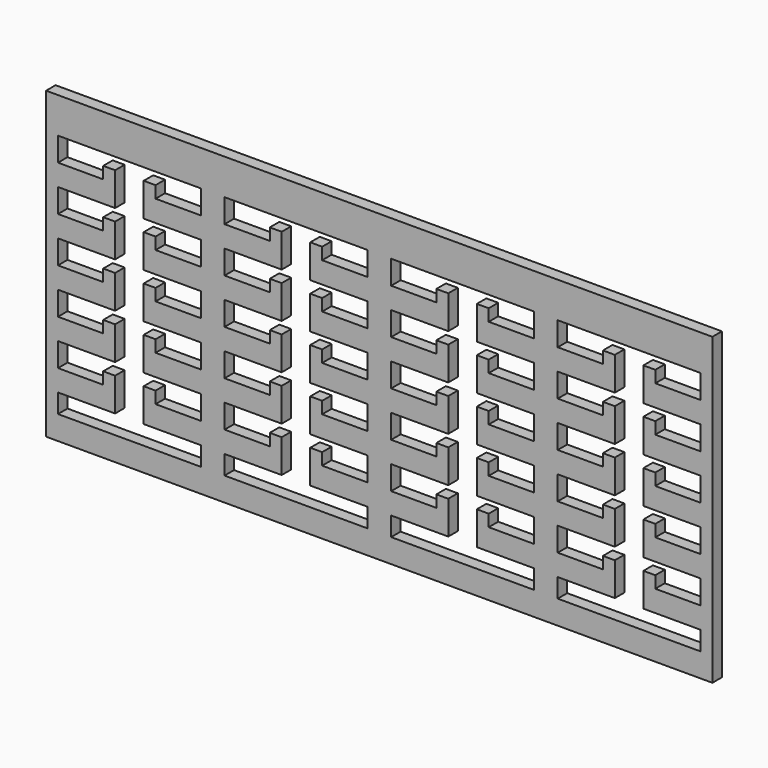
from build123d import *

# Parameters (mm, degrees)
F0_W     = 355.6
F0_H     = 162.56
F1_DEPTH = 6.35


with BuildPart() as f1:
    # F0 (on Front) → F1 (new body)
    with BuildSketch(Plane.XZ):
        with Locations((-191.475798, 8.893475)):
            Rectangle(F0_W, F0_H)
        Polygon((-362.925798, -38.096525), (-362.925798, -25.396525), (-332.445798, -25.396525), (-332.445798, -7.616525), (-338.795798, -7.616525), (-338.795798, -13.966525), (-362.925798, -13.966525), (-362.925798, -1.266525), (-332.445798, -1.266525), (-332.445798, 16.513475), (-338.795798, 16.513475), (-338.795798, 10.163475), (-362.925798, 10.163475), (-362.925798, 22.863475), (-332.445798, 22.863475), (-332.445798, 40.643475), (-338.795798, 40.643475), (-338.795798, 34.293475), (-362.925798, 34.293475), (-362.925798, 46.993475), (-332.445798, 46.993475), (-332.445798, 64.773475), (-338.795798, 64.773475), (-338.795798, 58.423475), (-362.925798, 58.423475), (-362.925798, 71.123475), (-286.725798, 71.123475), (-286.725798, 58.423475), (-310.855798, 58.423475), (-310.855798, 64.773475), (-317.205798, 64.773475), (-317.205798, 46.993475), (-286.725798, 46.993475), (-286.725798, 34.293475), (-310.855798, 34.293475), (-310.855798, 40.643475), (-317.205798, 40.643475), (-317.205798, 22.863475), (-286.725798, 22.863475), (-286.725798, 10.163475), (-310.855798, 10.163475), (-310.855798, 16.513475), (-317.205798, 16.513475), (-317.205798, -1.266525), (-286.725798, -1.266525), (-286.725798, -13.966525), (-310.855798, -13.966525), (-310.855798, -7.616525), (-317.205798, -7.616525), (-317.205798, -25.396525), (-286.725798, -25.396525), (-286.725798, -38.096525), (-310.855798, -38.096525), (-310.855798, -31.746525), (-317.205798, -31.746525), (-317.205798, -49.526525), (-286.725798, -49.526525), (-286.725798, -59.686525), (-362.925798, -59.686525), (-362.925798, -49.526525), (-332.445798, -49.526525), (-332.445798, -31.746525), (-338.795798, -31.746525), (-338.795798, -38.096525), align=None, mode=Mode.SUBTRACT)
        Polygon((-274.025798, 71.123475), (-197.825798, 71.123475), (-197.825798, 58.423475), (-221.955798, 58.423475), (-221.955798, 64.773475), (-228.305798, 64.773475), (-228.305798, 46.993475), (-197.825798, 46.993475), (-197.825798, 34.293475), (-221.955798, 34.293475), (-221.955798, 40.643475), (-228.305798, 40.643475), (-228.305798, 22.863475), (-197.825798, 22.863475), (-197.825798, 10.163475), (-221.955798, 10.163475), (-221.955798, 16.513475), (-228.305798, 16.513475), (-228.305798, -1.266525), (-197.825798, -1.266525), (-197.825798, -13.966525), (-221.955798, -13.966525), (-221.955798, -7.616525), (-228.305798, -7.616525), (-228.305798, -25.396525), (-197.825798, -25.396525), (-197.825798, -38.096525), (-221.955798, -38.096525), (-221.955798, -31.746525), (-228.305798, -31.746525), (-228.305798, -49.526525), (-197.825798, -49.526525), (-197.825798, -59.686525), (-274.025798, -59.686525), (-274.025798, -49.526525), (-243.545798, -49.526525), (-243.545798, -31.746525), (-249.895798, -31.746525), (-249.895798, -38.096525), (-274.025798, -38.096525), (-274.025798, -25.396525), (-243.545798, -25.396525), (-243.545798, -7.616525), (-249.895798, -7.616525), (-249.895798, -13.966525), (-274.025798, -13.966525), (-274.025798, -1.266525), (-243.545798, -1.266525), (-243.545798, 16.513475), (-249.895798, 16.513475), (-249.895798, 10.163475), (-274.025798, 10.163475), (-274.025798, 22.863475), (-243.545798, 22.863475), (-243.545798, 40.643475), (-249.895798, 40.643475), (-249.895798, 34.293475), (-274.025798, 34.293475), (-274.025798, 46.993475), (-243.545798, 46.993475), (-243.545798, 64.773475), (-249.895798, 64.773475), (-249.895798, 58.423475), (-274.025798, 58.423475), align=None, mode=Mode.SUBTRACT)
        Polygon((-185.125798, -38.096525), (-185.125798, -25.396525), (-154.645798, -25.396525), (-154.645798, -7.616525), (-160.995798, -7.616525), (-160.995798, -13.966525), (-185.125798, -13.966525), (-185.125798, -1.266525), (-154.645798, -1.266525), (-154.645798, 16.513475), (-160.995798, 16.513475), (-160.995798, 10.163475), (-185.125798, 10.163475), (-185.125798, 22.863475), (-154.645798, 22.863475), (-154.645798, 40.643475), (-160.995798, 40.643475), (-160.995798, 34.293475), (-185.125798, 34.293475), (-185.125798, 46.993475), (-154.645798, 46.993475), (-154.645798, 64.773475), (-160.995798, 64.773475), (-160.995798, 58.423475), (-185.125798, 58.423475), (-185.125798, 71.123475), (-108.925798, 71.123475), (-108.925798, 58.423475), (-133.055798, 58.423475), (-133.055798, 64.773475), (-139.405798, 64.773475), (-139.405798, 46.993475), (-108.925798, 46.993475), (-108.925798, 34.293475), (-133.055798, 34.293475), (-133.055798, 40.643475), (-139.405798, 40.643475), (-139.405798, 22.863475), (-108.925798, 22.863475), (-108.925798, 10.163475), (-133.055798, 10.163475), (-133.055798, 16.513475), (-139.405798, 16.513475), (-139.405798, -1.266525), (-108.925798, -1.266525), (-108.925798, -13.966525), (-133.055798, -13.966525), (-133.055798, -7.616525), (-139.405798, -7.616525), (-139.405798, -25.396525), (-108.925798, -25.396525), (-108.925798, -38.096525), (-133.055798, -38.096525), (-133.055798, -31.746525), (-139.405798, -31.746525), (-139.405798, -49.526525), (-108.925798, -49.526525), (-108.925798, -59.686525), (-185.125798, -59.686525), (-185.125798, -49.526525), (-154.645798, -49.526525), (-154.645798, -31.746525), (-160.995798, -31.746525), (-160.995798, -38.096525), align=None, mode=Mode.SUBTRACT)
        Polygon((-96.225798, -38.096525), (-96.225798, -25.396525), (-65.745798, -25.396525), (-65.745798, -7.616525), (-72.095798, -7.616525), (-72.095798, -13.966525), (-96.225798, -13.966525), (-96.225798, -1.266525), (-65.745798, -1.266525), (-65.745798, 16.513475), (-72.095798, 16.513475), (-72.095798, 10.163475), (-96.225798, 10.163475), (-96.225798, 22.863475), (-65.745798, 22.863475), (-65.745798, 40.643475), (-72.095798, 40.643475), (-72.095798, 34.293475), (-96.225798, 34.293475), (-96.225798, 46.993475), (-65.745798, 46.993475), (-65.745798, 64.773475), (-72.095798, 64.773475), (-72.095798, 58.423475), (-96.225798, 58.423475), (-96.225798, 71.123475), (-20.025798, 71.123475), (-20.025798, 58.423475), (-44.155798, 58.423475), (-44.155798, 64.773475), (-50.505798, 64.773475), (-50.505798, 46.993475), (-20.025798, 46.993475), (-20.025798, 34.293475), (-44.155798, 34.293475), (-44.155798, 40.643475), (-50.505798, 40.643475), (-50.505798, 22.863475), (-20.025798, 22.863475), (-20.025798, 10.163475), (-44.155798, 10.163475), (-44.155798, 16.513475), (-50.505798, 16.513475), (-50.505798, -1.266525), (-20.025798, -1.266525), (-20.025798, -13.966525), (-44.155798, -13.966525), (-44.155798, -7.616525), (-50.505798, -7.616525), (-50.505798, -25.396525), (-20.025798, -25.396525), (-20.025798, -38.096525), (-44.155798, -38.096525), (-44.155798, -31.746525), (-50.505798, -31.746525), (-50.505798, -49.526525), (-20.025798, -49.526525), (-20.025798, -59.686525), (-96.225798, -59.686525), (-96.225798, -49.526525), (-65.745798, -49.526525), (-65.745798, -31.746525), (-72.095798, -31.746525), (-72.095798, -38.096525), align=None, mode=Mode.SUBTRACT)
    extrude(amount=F1_DEPTH)


solid = f1.part
